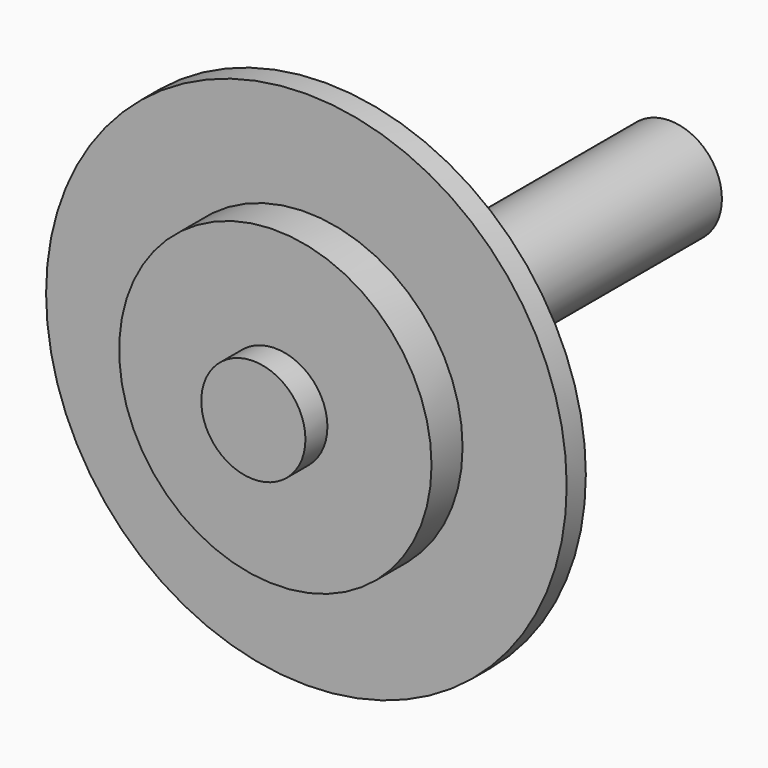
from build123d import *


with BuildPart() as f1:
    # F0 (on Top) → F1 (revolve)
    with BuildSketch(Plane.XY):
        Polygon((0, 5.279503), (0, 0), (10, 0), (10, 5.279503), (30, 5.279503), (30, 12.73292), (50, 12.73292), (50, 17.329193), (30, 17.329193), (30, 24.161492), (10, 24.161492), (10, 100), (0, 100), (0, 24.161492), (0, 17.329193), (0, 12.73292), align=None)
    revolve(axis=Axis((0, 50, 0), (0, 1, 0)))


solid = f1.part
